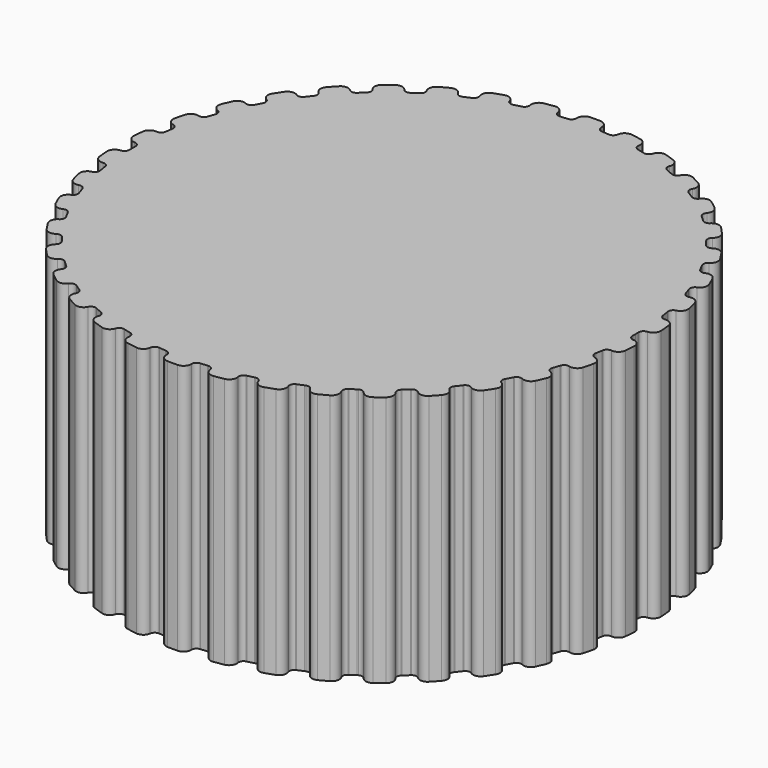
from build123d import *

# Parameters (mm, degrees)
F1_DEPTH = 100
F2_SCALE = 0.95


with BuildPart() as f1:
    # F0 (on Top) → F1 (new body)
    with BuildSketch(Plane.XY):
        with BuildLine():
            ThreePointArc((-53.3199420219, 84.5989585207), (-47.5947393037, 87.9473751206), (-41.6601680894, 90.9089126256))
            ThreePointArc((-41.6601680894, 90.9089126256), (-43.0883039369, 90.943553404), (-44.1290159663, 91.9221700064))
            ThreePointArc((-44.1290159663, 91.9221700064), (-45.8813521621, 93.4610956438), (-48.2064622794, 93.2798852621))
            ThreePointArc((-48.2064622794, 93.2798852621), (-49.9744762689, 92.3447438767), (-51.7243572842, 91.3760956899))
            ThreePointArc((-51.7243572842, 91.3760956899), (-53.1477752374, 89.5287041259), (-52.817875336, 87.2199944613))
            ThreePointArc((-52.817875336, 87.2199944613), (-52.567825849, 85.8134926886), (-53.3199420219, 84.5989585207))
        make_face()
        with BuildLine():
            ThreePointArc((-38.6681965941, 92.2213130039), (-32.4699469205, 94.5817241701), (-26.1288624702, 96.526071846))
            ThreePointArc((-26.1288624702, 96.526071846), (-27.5318187215, 96.795303604), (-28.3972617965, 97.9318687216))
            ThreePointArc((-28.3972617965, 97.9318687216), (-29.8723995758, 99.7382304773), (-32.1956244702, 99.9421921161))
            ThreePointArc((-32.1956244702, 99.9421921161), (-34.0934442665, 99.3108103786), (-35.978893437, 98.6433942393))
            ThreePointArc((-35.978893437, 98.6433942393), (-37.6869684822, 97.0554855831), (-37.7415691067, 94.7239639701))
            ThreePointArc((-37.7415691067, 94.7239639701), (-37.7264325518, 93.2954882554), (-38.6681965941, 92.2213130039))
        make_face()
        with BuildLine():
            ThreePointArc((-22.9616835638, 97.3281104713), (-16.4594590281, 98.6361303403), (-9.8848295956, 99.5102514511))
            ThreePointArc((-9.8848295956, 99.5102514511), (-11.2243372613, 100.0067302483), (-11.890904351, 101.2702413474))
            ThreePointArc((-11.890904351, 101.2702413474), (-13.0486058006, 103.2947663815), (-15.3065739532, 103.8783364991))
            ThreePointArc((-15.3065739532, 103.8783364991), (-17.2824319795, 103.5679368573), (-19.2520191668, 103.219958138))
            ThreePointArc((-19.2520191668, 103.219958138), (-21.1981594693, 101.9348463984), (-21.6357712571, 99.6441106687))
            ThreePointArc((-21.6357712571, 99.6441106687), (-21.8559605201, 98.2326261058), (-22.9616835638, 97.3281104713))
        make_face()
        with BuildLine():
            ThreePointArc((4.9398059679, 101.846225781), (4.1311199256, 104.0336903282), (2, 104.980950653))
            ThreePointArc((2, 104.980950653), (0, 105), (-2, 104.980950653))
            ThreePointArc((-2, 104.980950653), (-4.1311199256, 104.0336903282), (-4.9398059679, 101.846225781))
            ThreePointArc((-4.9398059679, 101.846225781), (-5.3893148596, 100.4902339894), (-6.6288356625, 99.7800508005))
            ThreePointArc((-6.6288356625, 99.7800508005), (0, 100), (6.6288356625, 99.7800508005))
            ThreePointArc((6.6288356625, 99.7800508005), (5.3893148596, 100.4902339894), (4.9398059679, 101.846225781))
        make_face()
        with BuildLine():
            ThreePointArc((11.890904351, 101.2702413474), (11.2243372613, 100.0067302483), (9.8848295956, 99.5102514511))
            ThreePointArc((9.8848295956, 99.5102514511), (16.4594590281, 98.6361303403), (22.9616835638, 97.3281104713))
            ThreePointArc((22.9616835638, 97.3281104713), (21.8559605201, 98.2326261058), (21.6357712571, 99.6441106687))
            ThreePointArc((21.6357712571, 99.6441106687), (21.1981594693, 101.9348463984), (19.2520191668, 103.219958138))
            ThreePointArc((19.2520191668, 103.219958138), (17.2824319795, 103.5679368573), (15.3065739532, 103.8783364991))
            ThreePointArc((15.3065739532, 103.8783364991), (13.0486058006, 103.2947663815), (11.890904351, 101.2702413474))
        make_face()
        with BuildLine():
            ThreePointArc((28.3972617965, 97.9318687216), (27.5318187215, 96.795303604), (26.1288624702, 96.526071846))
            ThreePointArc((26.1288624702, 96.526071846), (32.4699469205, 94.5817241701), (38.6681965941, 92.2213130039))
            ThreePointArc((38.6681965941, 92.2213130039), (37.7264325518, 93.2954882554), (37.7415691067, 94.7239639701))
            ThreePointArc((37.7415691067, 94.7239639701), (37.6869684822, 97.0554855831), (35.978893437, 98.6433942393))
            ThreePointArc((35.978893437, 98.6433942393), (34.0934442665, 99.3108103786), (32.1956244702, 99.9421921161))
            ThreePointArc((32.1956244702, 99.9421921161), (29.8723995758, 99.7382304773), (28.3972617965, 97.9318687216))
        make_face()
        with BuildLine():
            ThreePointArc((44.1290159663, 91.9221700064), (43.0883039369, 90.943553404), (41.6601680894, 90.9089126256))
            ThreePointArc((41.6601680894, 90.9089126256), (47.5947393037, 87.9473751206), (53.3199420219, 84.5989585207))
            ThreePointArc((53.3199420219, 84.5989585207), (52.567825849, 85.8134926886), (52.817875336, 87.2199944613))
            ThreePointArc((52.817875336, 87.2199944613), (53.1477752374, 89.5287041259), (51.7243572842, 91.3760956899))
            ThreePointArc((51.7243572842, 91.3760956899), (49.9744762689, 92.3447438767), (48.2064622794, 93.2798852621))
            ThreePointArc((48.2064622794, 93.2798852621), (45.8813521621, 93.4610956438), (44.1290159663, 91.9221700064))
        make_face()
        with BuildLine():
            ThreePointArc((58.6570456163, 83.4050741166), (57.4694525439, 82.6111001392), (56.0550929231, 82.8119952506))
            ThreePointArc((56.0550929231, 82.8119952506), (61.421271269, 78.9140509396), (66.5172584259, 74.6689649821))
            ThreePointArc((66.5172584259, 74.6689649821), (65.9753058911, 75.9907287403), (66.453447612, 77.3368908692))
            ThreePointArc((66.453447612, 77.3368908692), (67.1588492301, 79.559813004), (66.0589155001, 81.6162954498))
            ThreePointArc((66.0589155001, 81.6162954498), (64.4923348324, 82.8597534866), (62.9023534625, 84.0731463006))
            ThreePointArc((62.9023534625, 84.0731463006), (60.6387810651, 84.634585756), (58.6570456163, 83.4050741166))
        make_face()
        with BuildLine():
            ThreePointArc((71.5850639694, 72.6129052258), (70.2829842971, 72.0252314137), (68.9209809466, 72.4561825199))
            ThreePointArc((68.9209809466, 72.4561825199), (73.5723910673, 67.7281571626), (77.9001574177, 62.7021967263))
            ThreePointArc((77.9001574177, 62.7021967263), (77.5831515732, 64.095135805), (78.2763430684, 65.3442384964))
            ThreePointArc((78.2763430684, 65.3442384964), (79.3380048859, 67.4207375804), (78.5915587038, 69.6302154277))
            ThreePointArc((78.5915587038, 69.6302154277), (77.2510106207, 71.1145650207), (75.8824324173, 72.5731110703))
            ThreePointArc((75.8824324173, 72.5731110703), (73.7421420942, 73.4994649947), (71.5850639694, 72.6129052258))
        make_face()
        with BuildLine():
            ThreePointArc((82.5604283858, 59.8400455681), (81.1793794527, 59.4747021311), (79.9068842735, 60.1239540093))
            ThreePointArc((79.9068842735, 60.1239540093), (83.7166478263, 54.6948158122), (87.1581431856, 49.0250759962))
            ThreePointArc((87.1581431856, 49.0250759962), (87.0747311247, 50.4511946485), (87.9640639371, 51.5691656372))
            ThreePointArc((87.9640639371, 51.5691656372), (89.3530265871, 53.4426001883), (88.980429059, 55.7448046411))
            ThreePointArc((88.980429059, 55.7448046411), (87.9024802176, 57.4295566029), (86.7926364265, 59.0934705541))
            ThreePointArc((86.7926364265, 59.0934705541), (84.8340097184, 60.3594704271), (82.5604283858, 59.8400455681))
        make_face()
        with BuildLine():
            ThreePointArc((91.2837595348, 45.4349054587), (89.8614127557, 45.3018580132), (88.713136099, 46.1517007647))
            ThreePointArc((88.713136099, 46.1517007647), (91.5773326655, 40.1695424653), (94.0386820118, 34.0106789917))
            ThreePointArc((94.0386820118, 34.0106789917), (94.191138998, 35.4310764185), (95.2523544467, 36.3874203701))
            ThreePointArc((95.2523544467, 36.3874203701), (96.9307306489, 38.0066879775), (96.9421452642, 40.3388208997))
            ThreePointArc((96.9421452642, 40.3388208997), (96.1561992988, 42.1780195886), (95.3353635656, 44.0019142063))
            ThreePointArc((95.3353635656, 44.0019142063), (93.6118267033, 45.5730268517), (91.2837595348, 45.4349054587))
        make_face()
        with BuildLine():
            ThreePointArc((97.5171076826, 29.7904195683), (96.09226097, 29.8932973019), (95.0995248297, 30.9205494318))
            ThreePointArc((95.0995248297, 30.9205494318), (96.9400265939, 24.5485487141), (98.3540907333, 18.0685593236))
            ThreePointArc((98.3540907333, 18.0685593236), (98.7382581373, 19.4444907857), (99.9424090314, 20.2131211303))
            ThreePointArc((99.9424090314, 20.2131211303), (101.8644170582, 21.5340523947), (102.2595324558, 23.8324992797))
            ThreePointArc((102.2595324558, 23.8324992797), (101.7870279236, 25.7759761498), (101.2775905073, 27.7101003434))
            ThreePointArc((101.2775905073, 27.7101003434), (99.8361570835, 29.5434699038), (97.5171076826, 29.7904195683))
        make_face()
        with BuildLine():
            ThreePointArc((-66.5172584259, 74.6689649821), (-61.421271269, 78.9140509396), (-56.0550929231, 82.8119952506))
            ThreePointArc((-56.0550929231, 82.8119952506), (-57.4694525439, 82.6111001392), (-58.6570456163, 83.4050741166))
            ThreePointArc((-58.6570456163, 83.4050741166), (-60.6387810651, 84.634585756), (-62.9023534625, 84.0731463006))
            ThreePointArc((-62.9023534625, 84.0731463006), (-64.4923348324, 82.8597534866), (-66.0589155001, 81.6162954498))
            ThreePointArc((-66.0589155001, 81.6162954498), (-67.1588492301, 79.559813004), (-66.453447612, 77.3368908692))
            ThreePointArc((-66.453447612, 77.3368908692), (-65.9753058911, 75.9907287403), (-66.5172584259, 74.6689649821))
        make_face()
        with BuildLine():
            ThreePointArc((-77.9001574177, 62.7021967263), (-73.5723910673, 67.7281571626), (-68.9209809466, 72.4561825199))
            ThreePointArc((-68.9209809466, 72.4561825199), (-70.2829842971, 72.0252314137), (-71.5850639694, 72.6129052258))
            ThreePointArc((-71.5850639694, 72.6129052258), (-73.7421420942, 73.4994649947), (-75.8824324173, 72.5731110703))
            ThreePointArc((-75.8824324173, 72.5731110703), (-77.2510106207, 71.1145650207), (-78.5915587038, 69.6302154277))
            ThreePointArc((-78.5915587038, 69.6302154277), (-79.3380048859, 67.4207375804), (-78.2763430684, 65.3442384964))
            ThreePointArc((-78.2763430684, 65.3442384964), (-77.5831515732, 64.095135805), (-77.9001574177, 62.7021967263))
        make_face()
        with BuildLine():
            ThreePointArc((-87.1581431856, 49.0250759962), (-83.7166478263, 54.6948158122), (-79.9068842735, 60.1239540093))
            ThreePointArc((-79.9068842735, 60.1239540093), (-81.1793794527, 59.4747021311), (-82.5604283858, 59.8400455681))
            ThreePointArc((-82.5604283858, 59.8400455681), (-84.8340097184, 60.3594704271), (-86.7926364265, 59.0934705541))
            ThreePointArc((-86.7926364265, 59.0934705541), (-87.9024802176, 57.4295566029), (-88.980429059, 55.7448046411))
            ThreePointArc((-88.980429059, 55.7448046411), (-89.3530265871, 53.4426001883), (-87.9640639371, 51.5691656372))
            ThreePointArc((-87.9640639371, 51.5691656372), (-87.0747311247, 50.4511946485), (-87.1581431856, 49.0250759962))
        make_face()
        with BuildLine():
            ThreePointArc((-94.0386820118, 34.0106789917), (-91.5773326655, 40.1695424653), (-88.713136099, 46.1517007647))
            ThreePointArc((-88.713136099, 46.1517007647), (-89.8614127557, 45.3018580132), (-91.2837595348, 45.4349054587))
            ThreePointArc((-91.2837595348, 45.4349054587), (-93.6118267033, 45.5730268517), (-95.3353635656, 44.0019142063))
            ThreePointArc((-95.3353635656, 44.0019142063), (-96.1561992988, 42.1780195886), (-96.9421452642, 40.3388208997))
            ThreePointArc((-96.9421452642, 40.3388208997), (-96.9307306489, 38.0066879775), (-95.2523544467, 36.3874203701))
            ThreePointArc((-95.2523544467, 36.3874203701), (-94.191138998, 35.4310764185), (-94.0386820118, 34.0106789917))
        make_face()
        with BuildLine():
            ThreePointArc((-98.3540907333, 18.0685593236), (-96.9400265939, 24.5485487141), (-95.0995248297, 30.9205494318))
            ThreePointArc((-95.0995248297, 30.9205494318), (-96.09226097, 29.8932973019), (-97.5171076826, 29.7904195683))
            ThreePointArc((-97.5171076826, 29.7904195683), (-99.8361570835, 29.5434699038), (-101.2775905073, 27.7101003434))
            ThreePointArc((-101.2775905073, 27.7101003434), (-101.7870279236, 25.7759761498), (-102.2595324558, 23.8324992797))
            ThreePointArc((-102.2595324558, 23.8324992797), (-101.8644170582, 21.5340523947), (-99.9424090314, 20.2131211303))
            ThreePointArc((-99.9424090314, 20.2131211303), (-98.7382581373, 19.4444907857), (-98.3540907333, 18.0685593236))
        make_face()
        with BuildLine():
            ThreePointArc((-99.9866562495, 1.6335764584), (-99.6584493007, 8.2579345472), (-98.891846429, 14.8459661142))
            ThreePointArc((-98.891846429, 14.8459661142), (-99.7019627988, 13.6693253662), (-101.090443341, 13.3333286899))
            ThreePointArc((-101.090443341, 13.3333286899), (-103.3372173518, 12.708044111), (-104.4572287909, 10.662427178))
            ThreePointArc((-104.4572287909, 10.662427178), (-104.6413717657, 8.6708312746), (-104.7875461728, 6.676089206))
            ThreePointArc((-104.7875461728, 6.676089206), (-104.0195077109, 4.4740239977), (-101.9062952282, 3.4874606377))
            ThreePointArc((-101.9062952282, 3.4874606377), (-100.5920549861, 2.9275101322), (-99.9866562495, 1.6335764584))
        make_face()
        with BuildLine():
            ThreePointArc((-98.891846429, -14.8459661142), (-99.6584493007, -8.2579345472), (-99.9866562495, -1.6335764584))
            ThreePointArc((-99.9866562495, -1.6335764584), (-100.5920549861, -2.9275101322), (-101.9062952282, -3.4874606377))
            ThreePointArc((-101.9062952282, -3.4874606377), (-104.0195077109, -4.4740239977), (-104.7875461728, -6.676089206))
            ThreePointArc((-104.7875461728, -6.676089206), (-104.6413717657, -8.6708312746), (-104.4572287909, -10.662427178))
            ThreePointArc((-104.4572287909, -10.662427178), (-103.3372173518, -12.708044111), (-101.090443341, -13.3333286899))
            ThreePointArc((-101.090443341, -13.3333286899), (-99.7019627988, -13.6693253662), (-98.891846429, -14.8459661142))
        make_face()
        with BuildLine():
            ThreePointArc((-95.0995248297, -30.9205494318), (-96.9400265939, -24.5485487141), (-98.3540907333, -18.0685593236))
            ThreePointArc((-98.3540907333, -18.0685593236), (-98.7382581373, -19.4444907857), (-99.9424090314, -20.2131211303))
            ThreePointArc((-99.9424090314, -20.2131211303), (-101.8644170582, -21.5340523947), (-102.2595324558, -23.8324992797))
            ThreePointArc((-102.2595324558, -23.8324992797), (-101.7870279236, -25.7759761498), (-101.2775905073, -27.7101003434))
            ThreePointArc((-101.2775905073, -27.7101003434), (-99.8361570835, -29.5434699038), (-97.5171076826, -29.7904195683))
            ThreePointArc((-97.5171076826, -29.7904195683), (-96.09226097, -29.8932973019), (-95.0995248297, -30.9205494318))
        make_face()
        with BuildLine():
            ThreePointArc((-88.713136099, -46.1517007647), (-91.5773326655, -40.1695424653), (-94.0386820118, -34.0106789917))
            ThreePointArc((-94.0386820118, -34.0106789917), (-94.191138998, -35.4310764185), (-95.2523544467, -36.3874203701))
            ThreePointArc((-95.2523544467, -36.3874203701), (-96.9307306489, -38.0066879775), (-96.9421452642, -40.3388208997))
            ThreePointArc((-96.9421452642, -40.3388208997), (-96.1561992988, -42.1780195886), (-95.3353635656, -44.0019142063))
            ThreePointArc((-95.3353635656, -44.0019142063), (-93.6118267033, -45.5730268517), (-91.2837595348, -45.4349054587))
            ThreePointArc((-91.2837595348, -45.4349054587), (-89.8614127557, -45.3018580132), (-88.713136099, -46.1517007647))
        make_face()
        with BuildLine():
            ThreePointArc((-79.9068842735, -60.1239540093), (-83.7166478263, -54.6948158122), (-87.1581431856, -49.0250759962))
            ThreePointArc((-87.1581431856, -49.0250759962), (-87.0747311247, -50.4511946485), (-87.9640639371, -51.5691656372))
            ThreePointArc((-87.9640639371, -51.5691656372), (-89.3530265871, -53.4426001883), (-88.980429059, -55.7448046411))
            ThreePointArc((-88.980429059, -55.7448046411), (-87.9024802176, -57.4295566029), (-86.7926364265, -59.0934705541))
            ThreePointArc((-86.7926364265, -59.0934705541), (-84.8340097184, -60.3594704271), (-82.5604283858, -59.8400455681))
            ThreePointArc((-82.5604283858, -59.8400455681), (-81.1793794527, -59.4747021311), (-79.9068842735, -60.1239540093))
        make_face()
        with BuildLine():
            ThreePointArc((-68.9209809466, -72.4561825199), (-73.5723910673, -67.7281571626), (-77.9001574177, -62.7021967263))
            ThreePointArc((-77.9001574177, -62.7021967263), (-77.5831515732, -64.095135805), (-78.2763430684, -65.3442384964))
            ThreePointArc((-78.2763430684, -65.3442384964), (-79.3380048859, -67.4207375804), (-78.5915587038, -69.6302154277))
            ThreePointArc((-78.5915587038, -69.6302154277), (-77.2510106207, -71.1145650207), (-75.8824324173, -72.5731110703))
            ThreePointArc((-75.8824324173, -72.5731110703), (-73.7421420942, -73.4994649947), (-71.5850639694, -72.6129052258))
            ThreePointArc((-71.5850639694, -72.6129052258), (-70.2829842971, -72.0252314137), (-68.9209809466, -72.4561825199))
        make_face()
        with BuildLine():
            ThreePointArc((-56.0550929231, -82.8119952506), (-61.421271269, -78.9140509396), (-66.5172584259, -74.6689649821))
            ThreePointArc((-66.5172584259, -74.6689649821), (-65.9753058911, -75.9907287403), (-66.453447612, -77.3368908692))
            ThreePointArc((-66.453447612, -77.3368908692), (-67.1588492301, -79.559813004), (-66.0589155001, -81.6162954498))
            ThreePointArc((-66.0589155001, -81.6162954498), (-64.4923348324, -82.8597534866), (-62.9023534625, -84.0731463006))
            ThreePointArc((-62.9023534625, -84.0731463006), (-60.6387810651, -84.634585756), (-58.6570456163, -83.4050741166))
            ThreePointArc((-58.6570456163, -83.4050741166), (-57.4694525439, -82.6111001392), (-56.0550929231, -82.8119952506))
        make_face()
        with BuildLine():
            ThreePointArc((-41.6601680894, -90.9089126256), (-47.5947393037, -87.9473751206), (-53.3199420219, -84.5989585207))
            ThreePointArc((-53.3199420219, -84.5989585207), (-52.567825849, -85.8134926886), (-52.817875336, -87.2199944613))
            ThreePointArc((-52.817875336, -87.2199944613), (-53.1477752374, -89.5287041259), (-51.7243572842, -91.3760956899))
            ThreePointArc((-51.7243572842, -91.3760956899), (-49.9744762689, -92.3447438767), (-48.2064622794, -93.2798852621))
            ThreePointArc((-48.2064622794, -93.2798852621), (-45.8813521621, -93.4610956438), (-44.1290159663, -91.9221700064))
            ThreePointArc((-44.1290159663, -91.9221700064), (-43.0883039369, -90.943553404), (-41.6601680894, -90.9089126256))
        make_face()
        with BuildLine():
            ThreePointArc((-26.1288624702, -96.526071846), (-32.4699469205, -94.5817241701), (-38.6681965941, -92.2213130039))
            ThreePointArc((-38.6681965941, -92.2213130039), (-37.7264325518, -93.2954882554), (-37.7415691067, -94.7239639701))
            ThreePointArc((-37.7415691067, -94.7239639701), (-37.6869684822, -97.0554855831), (-35.978893437, -98.6433942393))
            ThreePointArc((-35.978893437, -98.6433942393), (-34.0934442665, -99.3108103786), (-32.1956244702, -99.9421921161))
            ThreePointArc((-32.1956244702, -99.9421921161), (-29.8723995758, -99.7382304773), (-28.3972617965, -97.9318687216))
            ThreePointArc((-28.3972617965, -97.9318687216), (-27.5318187215, -96.795303604), (-26.1288624702, -96.526071846))
        make_face()
        with BuildLine():
            ThreePointArc((-9.8848295956, -99.5102514511), (-16.4594590281, -98.6361303403), (-22.9616835638, -97.3281104713))
            ThreePointArc((-22.9616835638, -97.3281104713), (-21.8559605201, -98.2326261058), (-21.6357712571, -99.6441106687))
            ThreePointArc((-21.6357712571, -99.6441106687), (-21.1981594693, -101.9348463984), (-19.2520191668, -103.219958138))
            ThreePointArc((-19.2520191668, -103.219958138), (-17.2824319795, -103.5679368573), (-15.3065739532, -103.8783364991))
            ThreePointArc((-15.3065739532, -103.8783364991), (-13.0486058006, -103.2947663815), (-11.890904351, -101.2702413474))
            ThreePointArc((-11.890904351, -101.2702413474), (-11.2243372613, -100.0067302483), (-9.8848295956, -99.5102514511))
        make_face()
        with BuildLine():
            ThreePointArc((6.6288356625, -99.7800508005), (0, -100), (-6.6288356625, -99.7800508005))
            ThreePointArc((-6.6288356625, -99.7800508005), (-5.3893148596, -100.4902339894), (-4.9398059679, -101.846225781))
            ThreePointArc((-4.9398059679, -101.846225781), (-4.1311199256, -104.0336903282), (-2, -104.980950653))
            ThreePointArc((-2, -104.980950653), (0, -105), (2, -104.980950653))
            ThreePointArc((2, -104.980950653), (4.1311199256, -104.0336903282), (4.9398059679, -101.846225781))
            ThreePointArc((4.9398059679, -101.846225781), (5.3893148596, -100.4902339894), (6.6288356625, -99.7800508005))
        make_face()
        with BuildLine():
            ThreePointArc((21.6357712571, -99.6441106687), (21.8559605201, -98.2326261058), (22.9616835638, -97.3281104713))
            ThreePointArc((22.9616835638, -97.3281104713), (16.4594590281, -98.6361303403), (9.8848295956, -99.5102514511))
            ThreePointArc((9.8848295956, -99.5102514511), (11.2243372613, -100.0067302483), (11.890904351, -101.2702413474))
            ThreePointArc((11.890904351, -101.2702413474), (13.0486058006, -103.2947663815), (15.3065739532, -103.8783364991))
            ThreePointArc((15.3065739532, -103.8783364991), (17.2824319795, -103.5679368573), (19.2520191668, -103.219958138))
            ThreePointArc((19.2520191668, -103.219958138), (21.1981594693, -101.9348463984), (21.6357712571, -99.6441106687))
        make_face()
        with BuildLine():
            ThreePointArc((37.7415691067, -94.7239639701), (37.7264325518, -93.2954882554), (38.6681965941, -92.2213130039))
            ThreePointArc((38.6681965941, -92.2213130039), (32.4699469205, -94.5817241701), (26.1288624702, -96.526071846))
            ThreePointArc((26.1288624702, -96.526071846), (27.5318187215, -96.795303604), (28.3972617965, -97.9318687216))
            ThreePointArc((28.3972617965, -97.9318687216), (29.8723995758, -99.7382304773), (32.1956244702, -99.9421921161))
            ThreePointArc((32.1956244702, -99.9421921161), (34.0934442665, -99.3108103786), (35.978893437, -98.6433942393))
            ThreePointArc((35.978893437, -98.6433942393), (37.6869684822, -97.0554855831), (37.7415691067, -94.7239639701))
        make_face()
        with BuildLine():
            ThreePointArc((52.817875336, -87.2199944613), (52.567825849, -85.8134926886), (53.3199420219, -84.5989585207))
            ThreePointArc((53.3199420219, -84.5989585207), (47.5947393037, -87.9473751206), (41.6601680894, -90.9089126256))
            ThreePointArc((41.6601680894, -90.9089126256), (43.0883039369, -90.943553404), (44.1290159663, -91.9221700064))
            ThreePointArc((44.1290159663, -91.9221700064), (45.8813521621, -93.4610956438), (48.2064622794, -93.2798852621))
            ThreePointArc((48.2064622794, -93.2798852621), (49.9744762689, -92.3447438767), (51.7243572842, -91.3760956899))
            ThreePointArc((51.7243572842, -91.3760956899), (53.1477752374, -89.5287041259), (52.817875336, -87.2199944613))
        make_face()
        with BuildLine():
            ThreePointArc((66.453447612, -77.3368908692), (65.9753058911, -75.9907287403), (66.5172584259, -74.6689649821))
            ThreePointArc((66.5172584259, -74.6689649821), (61.421271269, -78.9140509396), (56.0550929231, -82.8119952506))
            ThreePointArc((56.0550929231, -82.8119952506), (57.4694525439, -82.6111001392), (58.6570456163, -83.4050741166))
            ThreePointArc((58.6570456163, -83.4050741166), (60.6387810651, -84.634585756), (62.9023534625, -84.0731463006))
            ThreePointArc((62.9023534625, -84.0731463006), (64.4923348324, -82.8597534866), (66.0589155001, -81.6162954498))
            ThreePointArc((66.0589155001, -81.6162954498), (67.1588492301, -79.559813004), (66.453447612, -77.3368908692))
        make_face()
        with BuildLine():
            ThreePointArc((78.2763430684, -65.3442384964), (77.5831515732, -64.095135805), (77.9001574177, -62.7021967263))
            ThreePointArc((77.9001574177, -62.7021967263), (73.5723910673, -67.7281571626), (68.9209809466, -72.4561825199))
            ThreePointArc((68.9209809466, -72.4561825199), (70.2829842971, -72.0252314137), (71.5850639694, -72.6129052258))
            ThreePointArc((71.5850639694, -72.6129052258), (73.7421420942, -73.4994649947), (75.8824324173, -72.5731110703))
            ThreePointArc((75.8824324173, -72.5731110703), (77.2510106207, -71.1145650207), (78.5915587038, -69.6302154277))
            ThreePointArc((78.5915587038, -69.6302154277), (79.3380048859, -67.4207375804), (78.2763430684, -65.3442384964))
        make_face()
        with BuildLine():
            ThreePointArc((87.9640639371, -51.5691656372), (87.0747311247, -50.4511946485), (87.1581431856, -49.0250759962))
            ThreePointArc((87.1581431856, -49.0250759962), (83.7166478263, -54.6948158122), (79.9068842735, -60.1239540093))
            ThreePointArc((79.9068842735, -60.1239540093), (81.1793794527, -59.4747021311), (82.5604283858, -59.8400455681))
            ThreePointArc((82.5604283858, -59.8400455681), (84.8340097184, -60.3594704271), (86.7926364265, -59.0934705541))
            ThreePointArc((86.7926364265, -59.0934705541), (87.9024802176, -57.4295566029), (88.980429059, -55.7448046411))
            ThreePointArc((88.980429059, -55.7448046411), (89.3530265871, -53.4426001883), (87.9640639371, -51.5691656372))
        make_face()
        with BuildLine():
            ThreePointArc((95.2523544467, -36.3874203701), (94.191138998, -35.4310764185), (94.0386820118, -34.0106789917))
            ThreePointArc((94.0386820118, -34.0106789917), (91.5773326655, -40.1695424653), (88.713136099, -46.1517007647))
            ThreePointArc((88.713136099, -46.1517007647), (89.8614127557, -45.3018580132), (91.2837595348, -45.4349054587))
            ThreePointArc((91.2837595348, -45.4349054587), (93.6118267033, -45.5730268517), (95.3353635656, -44.0019142063))
            ThreePointArc((95.3353635656, -44.0019142063), (96.1561992988, -42.1780195886), (96.9421452642, -40.3388208997))
            ThreePointArc((96.9421452642, -40.3388208997), (96.9307306489, -38.0066879775), (95.2523544467, -36.3874203701))
        make_face()
        with BuildLine():
            ThreePointArc((99.9424090314, -20.2131211303), (98.7382581373, -19.4444907857), (98.3540907333, -18.0685593236))
            ThreePointArc((98.3540907333, -18.0685593236), (96.9400265939, -24.5485487141), (95.0995248297, -30.9205494318))
            ThreePointArc((95.0995248297, -30.9205494318), (96.09226097, -29.8932973019), (97.5171076826, -29.7904195683))
            ThreePointArc((97.5171076826, -29.7904195683), (99.8361570835, -29.5434699038), (101.2775905073, -27.7101003434))
            ThreePointArc((101.2775905073, -27.7101003434), (101.7870279236, -25.7759761498), (102.2595324558, -23.8324992797))
            ThreePointArc((102.2595324558, -23.8324992797), (101.8644170582, -21.5340523947), (99.9424090314, -20.2131211303))
        make_face()
        with BuildLine():
            ThreePointArc((101.9062952282, -3.4874606377), (100.5920549861, -2.9275101322), (99.9866562495, -1.6335764584))
            ThreePointArc((99.9866562495, -1.6335764584), (99.6584493007, -8.2579345472), (98.891846429, -14.8459661142))
            ThreePointArc((98.891846429, -14.8459661142), (99.7019627988, -13.6693253662), (101.090443341, -13.3333286899))
            ThreePointArc((101.090443341, -13.3333286899), (103.3372173518, -12.708044111), (104.4572287909, -10.662427178))
            ThreePointArc((104.4572287909, -10.662427178), (104.6413717657, -8.6708312746), (104.7875461728, -6.676089206))
            ThreePointArc((104.7875461728, -6.676089206), (104.0195077109, -4.4740239977), (101.9062952282, -3.4874606377))
        make_face()
        with BuildLine():
            ThreePointArc((101.090443341, 13.3333286899), (99.7019627988, 13.6693253662), (98.891846429, 14.8459661142))
            ThreePointArc((98.891846429, 14.8459661142), (99.6584493007, 8.2579345472), (99.9866562495, 1.6335764584))
            ThreePointArc((99.9866562495, 1.6335764584), (100.5920549861, 2.9275101322), (101.9062952282, 3.4874606377))
            ThreePointArc((101.9062952282, 3.4874606377), (104.0195077109, 4.4740239977), (104.7875461728, 6.676089206))
            ThreePointArc((104.7875461728, 6.676089206), (104.6413717657, 8.6708312746), (104.4572287909, 10.662427178))
            ThreePointArc((104.4572287909, 10.662427178), (103.3372173518, 12.708044111), (101.090443341, 13.3333286899))
        make_face()
        with BuildLine():
            ThreePointArc((6.9756473744, 99.756405026), (6.8017268154, 99.7606787828), (6.6288356625, 99.7800508005))
            ThreePointArc((6.6288356625, 99.7800508005), (0, 100), (-6.6288356625, 99.7800508005))
            ThreePointArc((-6.6288356625, 99.7800508005), (-6.8017268154, 99.7606787828), (-6.9756473744, 99.756405026))
            ThreePointArc((-6.9756473744, 99.756405026), (-8.2579345472, 99.6584493007), (-9.5388559768, 99.5440115057))
            ThreePointArc((-9.5388559768, 99.5440115057), (-9.7111079233, 99.5196005909), (-9.8848295956, 99.5102514511))
            ThreePointArc((-9.8848295956, 99.5102514511), (-16.4594590281, 98.6361303403), (-22.9616835638, 97.3281104713))
            ThreePointArc((-22.9616835638, 97.3281104713), (-23.1290281774, 97.2805457142), (-23.2998732494, 97.2477038627))
            ThreePointArc((-23.2998732494, 97.2477038627), (-24.5485487141, 96.9400265939), (-25.793164203, 96.6163168435))
            ThreePointArc((-25.793164203, 96.6163168435), (-25.9590489529, 96.5638871232), (-26.1288624702, 96.526071846))
            ThreePointArc((-26.1288624702, 96.526071846), (-32.4699469205, 94.5817241701), (-38.6681965941, 92.2213130039))
            ThreePointArc((-38.6681965941, 92.2213130039), (-38.8254299436, 92.1468529499), (-38.9885393204, 92.0863388438))
            ThreePointArc((-38.9885393204, 92.0863388438), (-40.1695424653, 91.5773326655), (-41.3439021474, 91.0531809177))
            ThreePointArc((-41.3439021474, 91.0531809177), (-41.4988947972, 90.974162538), (-41.6601680894, 90.9089126256))
            ThreePointArc((-41.6601680894, 90.9089126256), (-47.5947393037, 87.9473751206), (-53.3199420219, 84.5989585207))
            ThreePointArc((-53.3199420219, 84.5989585207), (-53.4627751913, 84.4996342461), (-53.6136996743, 84.4130985525))
            ThreePointArc((-53.6136996743, 84.4130985525), (-54.6948158122, 83.7166478263), (-55.7668862168, 83.0063515744))
            ThreePointArc((-55.7668862168, 83.0063515744), (-55.906758971, 82.9028999507), (-56.0550929231, 82.8119952506))
            ThreePointArc((-56.0550929231, 82.8119952506), (-61.421271269, 78.9140509396), (-66.5172584259, 74.6689649821))
            ThreePointArc((-66.5172584259, 74.6689649821), (-66.6417952989, 74.5474857941), (-66.7764180616, 74.4372889812))
            ThreePointArc((-66.7764180616, 74.4372889812), (-67.7281571626, 73.5723910673), (-68.6686950036, 72.6953253415))
            ThreePointArc((-68.6686950036, 72.6953253415), (-68.7896324982, 72.5702623644), (-68.9209809466, 72.4561825199))
            ThreePointArc((-68.9209809466, 72.4561825199), (-73.5723910673, 67.7281571626), (-77.9001574177, 62.7021967263))
            ThreePointArc((-77.9001574177, 62.7021967263), (-78.0030009528, 62.5618762605), (-78.1176498373, 62.43102421))
            ThreePointArc((-78.1176498373, 62.43102421), (-78.9140509396, 61.421271269), (-79.6974007966, 60.4013601359))
            ThreePointArc((-79.6974007966, 60.4013601359), (-79.7961041719, 60.2580971975), (-79.9068842735, 60.1239540093))
            ThreePointArc((-79.9068842735, 60.1239540093), (-83.7166478263, 54.6948158122), (-87.1581431856, 49.0250759962))
            ThreePointArc((-87.1581431856, 49.0250759962), (-87.2364880794, 48.8697418291), (-87.3280357629, 48.7218038438))
            ThreePointArc((-87.3280357629, 48.7218038438), (-87.9473751206, 47.5947393037), (-88.5521692515, 46.4598032804))
            ThreePointArc((-88.5521692515, 46.4598032804), (-88.6259461368, 46.3022482201), (-88.713136099, 46.1517007647))
            ThreePointArc((-88.713136099, 46.1517007647), (-91.5773326655, 40.1695424653), (-94.0386820118, 34.0106789917))
            ThreePointArc((-94.0386820118, 34.0106789917), (-94.0903912198, 33.8445682346), (-94.1563405201, 33.6835796771))
            ThreePointArc((-94.1563405201, 33.6835796771), (-94.5817241701, 32.4699469205), (-94.9914653675, 31.2509441031))
            ThreePointArc((-94.9914653675, 31.2509441031), (-95.0383033217, 31.0833946122), (-95.0995248297, 30.9205494318))
            ThreePointArc((-95.0995248297, 30.9205494318), (-96.9400265939, 24.5485487141), (-98.3540907333, 18.0685593236))
            ThreePointArc((-98.3540907333, 18.0685593236), (-98.377753763, 17.8962030448), (-98.4163057552, 17.7265552634))
            ThreePointArc((-98.4163057552, 17.7265552634), (-98.6361303403, 16.4594590281), (-98.8396419326, 15.1896406357))
            ThreePointArc((-98.8396419326, 15.1896406357), (-98.8582633383, 15.0166670277), (-98.891846429, 14.8459661142))
            ThreePointArc((-98.891846429, 14.8459661142), (-99.6584493007, 8.2579345472), (-99.9866562495, 1.6335764584))
            ThreePointArc((-99.9866562495, 1.6335764584), (-99.9816276353, 1.4596760878), (-99.9917307214, 1.2859966317))
            ThreePointArc((-99.9917307214, 1.2859966317), (-100, 0), (-99.9917307214, -1.2859966317))
            ThreePointArc((-99.9917307214, -1.2859966317), (-99.9816276353, -1.4596760878), (-99.9866562495, -1.6335764584))
            ThreePointArc((-99.9866562495, -1.6335764584), (-99.6584493007, -8.2579345472), (-98.891846429, -14.8459661142))
            ThreePointArc((-98.891846429, -14.8459661142), (-98.8582633383, -15.0166670277), (-98.8396419326, -15.1896406357))
            ThreePointArc((-98.8396419326, -15.1896406357), (-98.6361303403, -16.4594590281), (-98.4163057552, -17.7265552634))
            ThreePointArc((-98.4163057552, -17.7265552634), (-98.377753763, -17.8962030448), (-98.3540907333, -18.0685593236))
            ThreePointArc((-98.3540907333, -18.0685593236), (-96.9400265939, -24.5485487141), (-95.0995248297, -30.9205494318))
            ThreePointArc((-95.0995248297, -30.9205494318), (-95.0383033217, -31.0833946122), (-94.9914653675, -31.2509441031))
            ThreePointArc((-94.9914653675, -31.2509441031), (-94.5817241701, -32.4699469205), (-94.1563405201, -33.6835796771))
            ThreePointArc((-94.1563405201, -33.6835796771), (-94.0903912198, -33.8445682346), (-94.0386820118, -34.0106789917))
            ThreePointArc((-94.0386820118, -34.0106789917), (-91.5773326655, -40.1695424653), (-88.713136099, -46.1517007647))
            ThreePointArc((-88.713136099, -46.1517007647), (-88.6259461368, -46.3022482201), (-88.5521692515, -46.4598032804))
            ThreePointArc((-88.5521692515, -46.4598032804), (-87.9473751206, -47.5947393037), (-87.3280357629, -48.7218038438))
            ThreePointArc((-87.3280357629, -48.7218038438), (-87.2364880794, -48.8697418291), (-87.1581431856, -49.0250759962))
            ThreePointArc((-87.1581431856, -49.0250759962), (-83.7166478263, -54.6948158122), (-79.9068842735, -60.1239540093))
            ThreePointArc((-79.9068842735, -60.1239540093), (-79.7961041719, -60.2580971975), (-79.6974007966, -60.4013601359))
            ThreePointArc((-79.6974007966, -60.4013601359), (-78.9140509396, -61.421271269), (-78.1176498373, -62.43102421))
            ThreePointArc((-78.1176498373, -62.43102421), (-78.0030009528, -62.5618762605), (-77.9001574177, -62.7021967263))
            ThreePointArc((-77.9001574177, -62.7021967263), (-73.5723910673, -67.7281571626), (-68.9209809466, -72.4561825199))
            ThreePointArc((-68.9209809466, -72.4561825199), (-68.7896324982, -72.5702623644), (-68.6686950036, -72.6953253415))
            ThreePointArc((-68.6686950036, -72.6953253415), (-67.7281571626, -73.5723910673), (-66.7764180616, -74.4372889812))
            ThreePointArc((-66.7764180616, -74.4372889812), (-66.6417952989, -74.5474857941), (-66.5172584259, -74.6689649821))
            ThreePointArc((-66.5172584259, -74.6689649821), (-61.421271269, -78.9140509396), (-56.0550929231, -82.8119952506))
            ThreePointArc((-56.0550929231, -82.8119952506), (-55.906758971, -82.9028999507), (-55.7668862168, -83.0063515744))
            ThreePointArc((-55.7668862168, -83.0063515744), (-54.6948158122, -83.7166478263), (-53.6136996743, -84.4130985525))
            ThreePointArc((-53.6136996743, -84.4130985525), (-53.4627751913, -84.4996342461), (-53.3199420219, -84.5989585207))
            ThreePointArc((-53.3199420219, -84.5989585207), (-47.5947393037, -87.9473751206), (-41.6601680894, -90.9089126256))
            ThreePointArc((-41.6601680894, -90.9089126256), (-41.4988947972, -90.974162538), (-41.3439021474, -91.0531809177))
            ThreePointArc((-41.3439021474, -91.0531809177), (-40.1695424653, -91.5773326655), (-38.9885393204, -92.0863388438))
            ThreePointArc((-38.9885393204, -92.0863388438), (-38.8254299436, -92.1468529499), (-38.6681965941, -92.2213130039))
            ThreePointArc((-38.6681965941, -92.2213130039), (-32.4699469205, -94.5817241701), (-26.1288624702, -96.526071846))
            ThreePointArc((-26.1288624702, -96.526071846), (-25.9590489529, -96.5638871232), (-25.793164203, -96.6163168435))
            ThreePointArc((-25.793164203, -96.6163168435), (-24.5485487141, -96.9400265939), (-23.2998732494, -97.2477038627))
            ThreePointArc((-23.2998732494, -97.2477038627), (-23.1290281774, -97.2805457142), (-22.9616835638, -97.3281104713))
            ThreePointArc((-22.9616835638, -97.3281104713), (-16.4594590281, -98.6361303403), (-9.8848295956, -99.5102514511))
            ThreePointArc((-9.8848295956, -99.5102514511), (-9.7111079233, -99.5196005909), (-9.5388559768, -99.5440115057))
            ThreePointArc((-9.5388559768, -99.5440115057), (-8.2579345472, -99.6584493007), (-6.9756473744, -99.756405026))
            ThreePointArc((-6.9756473744, -99.756405026), (-6.8017268154, -99.7606787828), (-6.6288356625, -99.7800508005))
            ThreePointArc((-6.6288356625, -99.7800508005), (0, -100), (6.6288356625, -99.7800508005))
            ThreePointArc((6.6288356625, -99.7800508005), (6.8017268154, -99.7606787828), (6.9756473744, -99.756405026))
            ThreePointArc((6.9756473744, -99.756405026), (8.2579345472, -99.6584493007), (9.5388559768, -99.5440115057))
            ThreePointArc((9.5388559768, -99.5440115057), (9.7111079233, -99.5196005909), (9.8848295956, -99.5102514511))
            ThreePointArc((9.8848295956, -99.5102514511), (16.4594590281, -98.6361303403), (22.9616835638, -97.3281104713))
            ThreePointArc((22.9616835638, -97.3281104713), (23.1290281774, -97.2805457142), (23.2998732494, -97.2477038627))
            ThreePointArc((23.2998732494, -97.2477038627), (24.5485487141, -96.9400265939), (25.793164203, -96.6163168435))
            ThreePointArc((25.793164203, -96.6163168435), (25.9590489529, -96.5638871232), (26.1288624702, -96.526071846))
            ThreePointArc((26.1288624702, -96.526071846), (32.4699469205, -94.5817241701), (38.6681965941, -92.2213130039))
            ThreePointArc((38.6681965941, -92.2213130039), (38.8254299436, -92.1468529499), (38.9885393204, -92.0863388438))
            ThreePointArc((38.9885393204, -92.0863388438), (40.1695424653, -91.5773326655), (41.3439021474, -91.0531809177))
            ThreePointArc((41.3439021474, -91.0531809177), (41.4988947972, -90.974162538), (41.6601680894, -90.9089126256))
            ThreePointArc((41.6601680894, -90.9089126256), (47.5947393037, -87.9473751206), (53.3199420219, -84.5989585207))
            ThreePointArc((53.3199420219, -84.5989585207), (53.4627751913, -84.4996342461), (53.6136996743, -84.4130985525))
            ThreePointArc((53.6136996743, -84.4130985525), (54.6948158122, -83.7166478263), (55.7668862168, -83.0063515744))
            ThreePointArc((55.7668862168, -83.0063515744), (55.906758971, -82.9028999507), (56.0550929231, -82.8119952506))
            ThreePointArc((56.0550929231, -82.8119952506), (61.421271269, -78.9140509396), (66.5172584259, -74.6689649821))
            ThreePointArc((66.5172584259, -74.6689649821), (66.6417952989, -74.5474857941), (66.7764180616, -74.4372889812))
            ThreePointArc((66.7764180616, -74.4372889812), (67.7281571626, -73.5723910673), (68.6686950036, -72.6953253415))
            ThreePointArc((68.6686950036, -72.6953253415), (68.7896324982, -72.5702623644), (68.9209809466, -72.4561825199))
            ThreePointArc((68.9209809466, -72.4561825199), (73.5723910673, -67.7281571626), (77.9001574177, -62.7021967263))
            ThreePointArc((77.9001574177, -62.7021967263), (78.0030009528, -62.5618762605), (78.1176498373, -62.43102421))
            ThreePointArc((78.1176498373, -62.43102421), (78.9140509396, -61.421271269), (79.6974007966, -60.4013601359))
            ThreePointArc((79.6974007966, -60.4013601359), (79.7961041719, -60.2580971975), (79.9068842735, -60.1239540093))
            ThreePointArc((79.9068842735, -60.1239540093), (83.7166478263, -54.6948158122), (87.1581431856, -49.0250759962))
            ThreePointArc((87.1581431856, -49.0250759962), (87.2364880794, -48.8697418291), (87.3280357629, -48.7218038438))
            ThreePointArc((87.3280357629, -48.7218038438), (87.9473751206, -47.5947393037), (88.5521692515, -46.4598032804))
            ThreePointArc((88.5521692515, -46.4598032804), (88.6259461368, -46.3022482201), (88.713136099, -46.1517007647))
            ThreePointArc((88.713136099, -46.1517007647), (91.5773326655, -40.1695424653), (94.0386820118, -34.0106789917))
            ThreePointArc((94.0386820118, -34.0106789917), (94.0903912198, -33.8445682346), (94.1563405201, -33.6835796771))
            ThreePointArc((94.1563405201, -33.6835796771), (94.5817241701, -32.4699469205), (94.9914653675, -31.2509441031))
            ThreePointArc((94.9914653675, -31.2509441031), (95.0383033217, -31.0833946122), (95.0995248297, -30.9205494318))
            ThreePointArc((95.0995248297, -30.9205494318), (96.9400265939, -24.5485487141), (98.3540907333, -18.0685593236))
            ThreePointArc((98.3540907333, -18.0685593236), (98.377753763, -17.8962030448), (98.4163057552, -17.7265552634))
            ThreePointArc((98.4163057552, -17.7265552634), (98.6361303403, -16.4594590281), (98.8396419326, -15.1896406357))
            ThreePointArc((98.8396419326, -15.1896406357), (98.8582633383, -15.0166670277), (98.891846429, -14.8459661142))
            ThreePointArc((98.891846429, -14.8459661142), (99.6584493007, -8.2579345472), (99.9866562495, -1.6335764584))
            ThreePointArc((99.9866562495, -1.6335764584), (99.9816276353, -1.4596760878), (99.9917307214, -1.2859966317))
            ThreePointArc((99.9917307214, -1.2859966317), (99.997932659, -0.6430116091), (100, 0))
            ThreePointArc((100, 0), (99.997932659, 0.6430116091), (99.9917307214, 1.2859966317))
            ThreePointArc((99.9917307214, 1.2859966317), (99.9816276353, 1.4596760878), (99.9866562495, 1.6335764584))
            ThreePointArc((99.9866562495, 1.6335764584), (99.6584493007, 8.2579345472), (98.891846429, 14.8459661142))
            ThreePointArc((98.891846429, 14.8459661142), (98.8582633383, 15.0166670277), (98.8396419326, 15.1896406357))
            ThreePointArc((98.8396419326, 15.1896406357), (98.6361303403, 16.4594590281), (98.4163057552, 17.7265552634))
            ThreePointArc((98.4163057552, 17.7265552634), (98.377753763, 17.8962030448), (98.3540907333, 18.0685593236))
            ThreePointArc((98.3540907333, 18.0685593236), (96.9400265939, 24.5485487141), (95.0995248297, 30.9205494318))
            ThreePointArc((95.0995248297, 30.9205494318), (95.0383033217, 31.0833946122), (94.9914653675, 31.2509441031))
            ThreePointArc((94.9914653675, 31.2509441031), (94.5817241701, 32.4699469205), (94.1563405201, 33.6835796771))
            ThreePointArc((94.1563405201, 33.6835796771), (94.0903912198, 33.8445682346), (94.0386820118, 34.0106789917))
            ThreePointArc((94.0386820118, 34.0106789917), (91.5773326655, 40.1695424653), (88.713136099, 46.1517007647))
            ThreePointArc((88.713136099, 46.1517007647), (88.6259461368, 46.3022482201), (88.5521692515, 46.4598032804))
            ThreePointArc((88.5521692515, 46.4598032804), (87.9473751206, 47.5947393037), (87.3280357629, 48.7218038438))
            ThreePointArc((87.3280357629, 48.7218038438), (87.2364880794, 48.8697418291), (87.1581431856, 49.0250759962))
            ThreePointArc((87.1581431856, 49.0250759962), (83.7166478263, 54.6948158122), (79.9068842735, 60.1239540093))
            ThreePointArc((79.9068842735, 60.1239540093), (79.7961041719, 60.2580971975), (79.6974007966, 60.4013601359))
            ThreePointArc((79.6974007966, 60.4013601359), (78.9140509396, 61.421271269), (78.1176498373, 62.43102421))
            ThreePointArc((78.1176498373, 62.43102421), (78.0030009528, 62.5618762605), (77.9001574177, 62.7021967263))
            ThreePointArc((77.9001574177, 62.7021967263), (73.5723910673, 67.7281571626), (68.9209809466, 72.4561825199))
            ThreePointArc((68.9209809466, 72.4561825199), (68.7896324982, 72.5702623644), (68.6686950036, 72.6953253415))
            ThreePointArc((68.6686950036, 72.6953253415), (67.7281571626, 73.5723910673), (66.7764180616, 74.4372889812))
            ThreePointArc((66.7764180616, 74.4372889812), (66.6417952989, 74.5474857941), (66.5172584259, 74.6689649821))
            ThreePointArc((66.5172584259, 74.6689649821), (61.421271269, 78.9140509396), (56.0550929231, 82.8119952506))
            ThreePointArc((56.0550929231, 82.8119952506), (55.906758971, 82.9028999507), (55.7668862168, 83.0063515744))
            ThreePointArc((55.7668862168, 83.0063515744), (54.6948158122, 83.7166478263), (53.6136996743, 84.4130985525))
            ThreePointArc((53.6136996743, 84.4130985525), (53.4627751913, 84.4996342461), (53.3199420219, 84.5989585207))
            ThreePointArc((53.3199420219, 84.5989585207), (47.5947393037, 87.9473751206), (41.6601680894, 90.9089126256))
            ThreePointArc((41.6601680894, 90.9089126256), (41.4988947972, 90.974162538), (41.3439021474, 91.0531809177))
            ThreePointArc((41.3439021474, 91.0531809177), (40.1695424653, 91.5773326655), (38.9885393204, 92.0863388438))
            ThreePointArc((38.9885393204, 92.0863388438), (38.8254299436, 92.1468529499), (38.6681965941, 92.2213130039))
            ThreePointArc((38.6681965941, 92.2213130039), (32.4699469205, 94.5817241701), (26.1288624702, 96.526071846))
            ThreePointArc((26.1288624702, 96.526071846), (25.9590489529, 96.5638871232), (25.793164203, 96.6163168435))
            ThreePointArc((25.793164203, 96.6163168435), (24.5485487141, 96.9400265939), (23.2998732494, 97.2477038627))
            ThreePointArc((23.2998732494, 97.2477038627), (23.1290281774, 97.2805457142), (22.9616835638, 97.3281104713))
            ThreePointArc((22.9616835638, 97.3281104713), (16.4594590281, 98.6361303403), (9.8848295956, 99.5102514511))
            ThreePointArc((9.8848295956, 99.5102514511), (9.7111079233, 99.5196005909), (9.5388559768, 99.5440115057))
            ThreePointArc((9.5388559768, 99.5440115057), (8.2579345472, 99.6584493007), (6.9756473744, 99.756405026))
        make_face()
    extrude(amount=F1_DEPTH)


with BuildPart() as f1_1:
    # F2: moved
    add(f1.part.scale(F2_SCALE))


solid = f1_1.part
